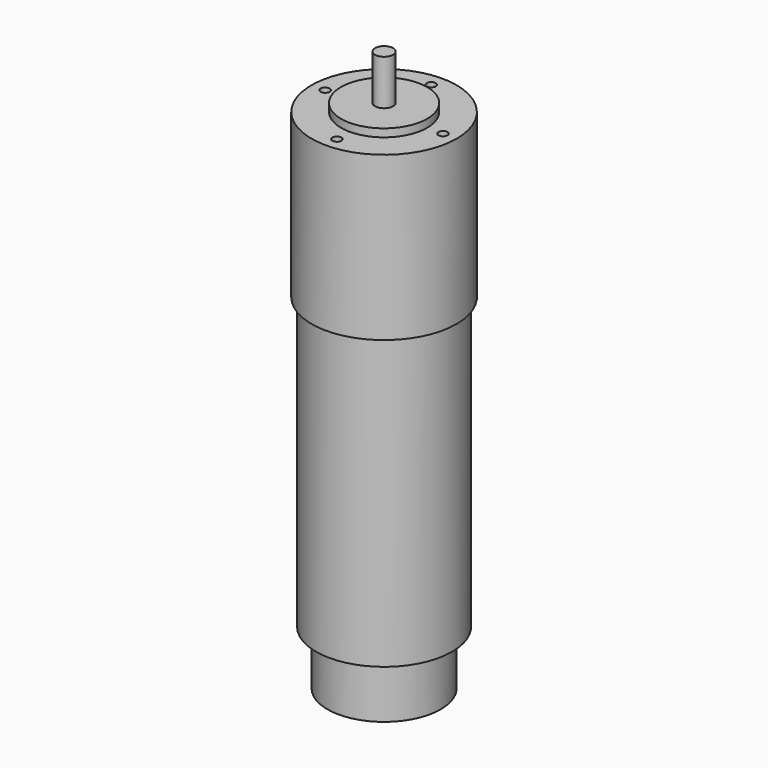
from build123d import *

# Parameters (mm, degrees)
F2_R     = 1
F3_DEPTH = 7


with BuildPart() as f1:
    # F0 (on Front) → F1 (revolve)
    with BuildSketch(Plane.XZ):
        Polygon((2, 123.75), (0, 123.75), (0, 0), (12.5, 0), (12.5, 12), (15, 12), (15, 76), (16, 76), (16, 112), (9.5, 112), (9.5, 113.75), (2, 113.75), align=None)
    revolve(axis=Axis((0, 0, 70.364535), (0, 0, 1)))

    # F2 (on face) → F3 (cut)
    with BuildSketch(Plane.XY.offset(112)):
        with Locations((0, 13)):
            Circle(F2_R)
        with Locations((13, 0)):
            Circle(F2_R)
        with Locations((-13, 0)):
            Circle(F2_R)
        with Locations((0, -13)):
            Circle(F2_R)
    extrude(amount=-F3_DEPTH, mode=Mode.SUBTRACT)


solid = f1.part
